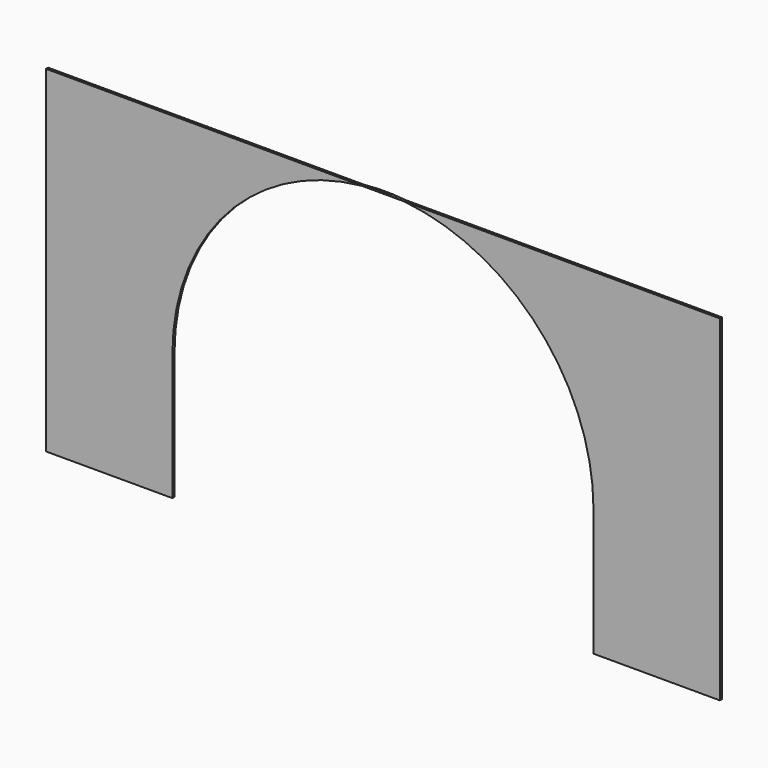
from build123d import *

# Parameters (mm, degrees)
F1_DEPTH = 4.7625


with BuildPart() as f1:
    # F0 (on Front) → F1 (new body, symmetric)
    with BuildSketch(Plane.XZ):
        with BuildLine():
            Line((-762, -459.935337), (-762, 0))
            ThreePointArc((-762, 0), (-565.190818, 511.080561), (-76.426931, 758.157585))
            Line((-76.426931, 758.157585), (-1219.2, 759.264663))
            Line((-1219.2, 759.264663), (-1219.2, -5.09757))
            Line((-1219.2, -5.09757), (-1219.2, -459.935337))
            Line((-1219.2, -459.935337), (-762, -459.935337))
        make_face()
        with BuildLine():
            Line((1219.198856, 756.90243), (77.895737, 758.008083))
            ThreePointArc((77.895737, 758.008083), (565.685669, 510.532785), (762, 0))
            Line((762, 0), (762, -459.935337))
            Line((762, -459.935337), (1219.2, -459.935337))
            Line((1219.2, -459.935337), (1219.198856, -5.09757))
            Line((1219.198856, -5.09757), (1219.198856, 756.90243))
        make_face()
        with BuildLine():
            Line((-762, -459.935337), (-762, 0))
            ThreePointArc((-762, 0), (-565.190818, 511.080561), (-76.426931, 758.157585))
            Line((-76.426931, 758.157585), (-1219.2, 759.264663))
            Line((-1219.2, 759.264663), (-1219.2, -5.09757))
            Line((-1219.2, -5.09757), (-1219.2, -459.935337))
            Line((-1219.2, -459.935337), (-762, -459.935337))
        make_face()
        with BuildLine():
            Line((1219.198856, 756.90243), (77.895737, 758.008083))
            ThreePointArc((77.895737, 758.008083), (565.685669, 510.532785), (762, 0))
            Line((762, 0), (762, -459.935337))
            Line((762, -459.935337), (1219.2, -459.935337))
            Line((1219.2, -459.935337), (1219.198856, -5.09757))
            Line((1219.198856, -5.09757), (1219.198856, 756.90243))
        make_face()
        with BuildLine():
            ThreePointArc((77.895737, 758.008083), (0.738198, 761.999642), (-76.426931, 758.157585))
            Line((-76.426931, 758.157585), (77.895737, 758.008083))
        make_face()
    extrude(amount=F1_DEPTH, both=True)


solid = f1.part
